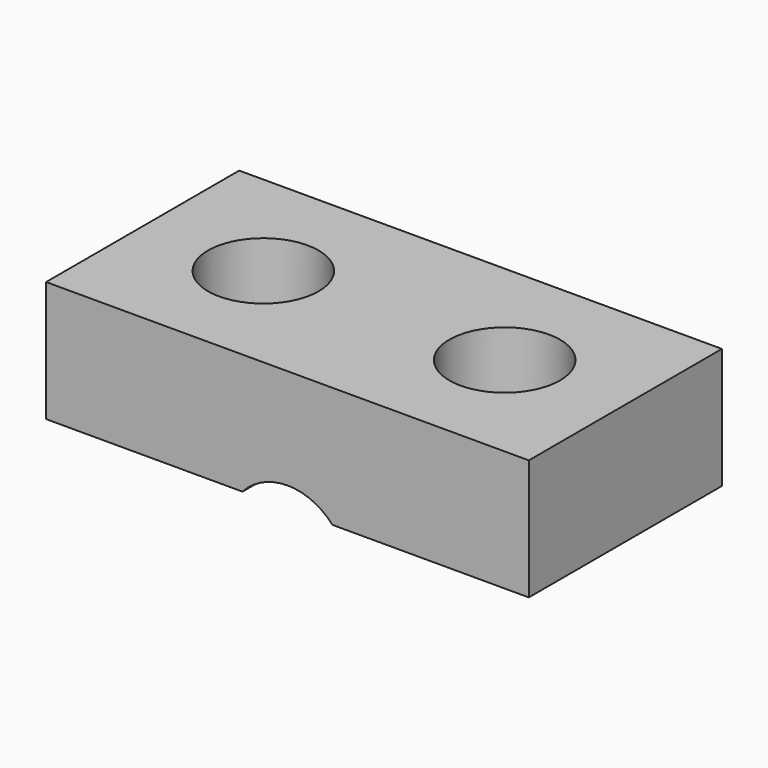
from build123d import *

# Parameters (mm, degrees)
F0_W     = 38.1
F0_H     = 19.05
F0_R     = 4.365625
F1_DEPTH = 9.525
F2_R     = 4.7625
F3_DEPTH = 25.4


with BuildPart() as f1:
    # F0 (on Top) → F1 (new body)
    with BuildSketch(Plane.XY):
        with Locations((14.130687, 9.525)):
            Rectangle(F0_W, F0_H)
        with Locations((4.605687, 9.525)):
            Circle(F0_R, mode=Mode.SUBTRACT)
        with Locations((23.655687, 9.525)):
            Circle(F0_R, mode=Mode.SUBTRACT)
    extrude(amount=F1_DEPTH)

    # F2 (on face) → F3 (cut)
    with BuildSketch(Plane.XZ):
        with Locations((14.130687, -3.175)):
            Circle(F2_R)
    extrude(amount=-F3_DEPTH, mode=Mode.SUBTRACT)


solid = f1.part
